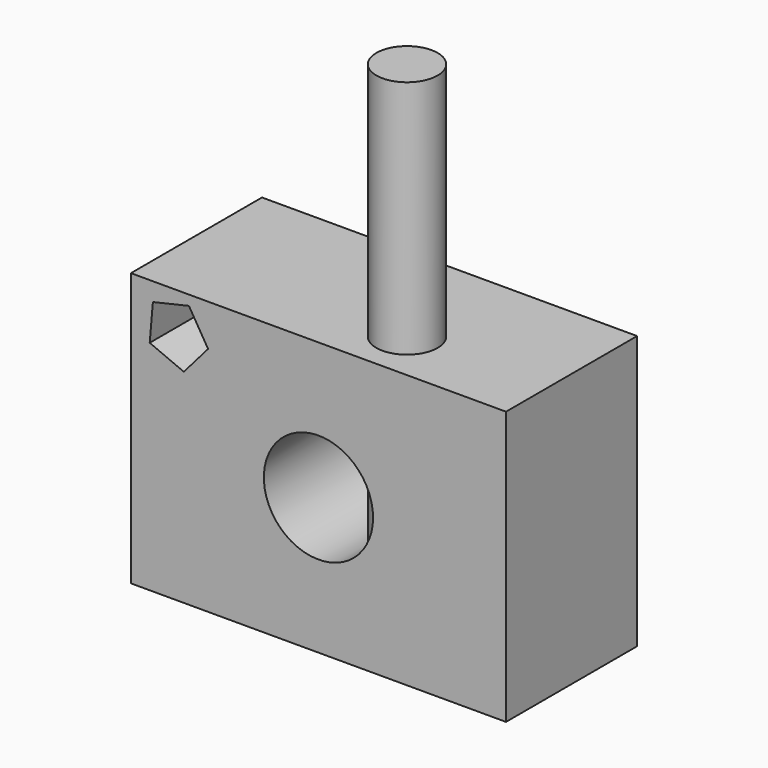
from build123d import *

# Parameters (mm, degrees)
F0_W     = 68.672989
F0_H     = 50
F0_R     = 10
F1_DEPTH = 15
F2_R     = 5.609518
F3_DEPTH = 93.9


with BuildPart() as f1:
    # F0 (on Front) → F1 (new body, symmetric)
    with BuildSketch(Plane.XZ):
        with Locations((34.336495, 25)):
            Rectangle(F0_W, F0_H)
        Polygon((10.629317, 48.182614), (14.130936, 42.374947), (9.689576, 37.250041), (3.443045, 39.890342), (4.023837, 46.647044), align=None, mode=Mode.SUBTRACT)
        with Locations((34.336495, 25)):
            Circle(F0_R, mode=Mode.SUBTRACT)
    extrude(amount=F1_DEPTH, both=True)

    # F2 (on face) → F3 (join)
    with BuildSketch(Plane(origin=(0, 0, 0), x_dir=(1, 0, 0), z_dir=(0, 0, -1))):
        with Locations((43.091845, 5.679999)):
            Circle(F2_R)
    extrude(amount=-F3_DEPTH)


solid = f1.part
